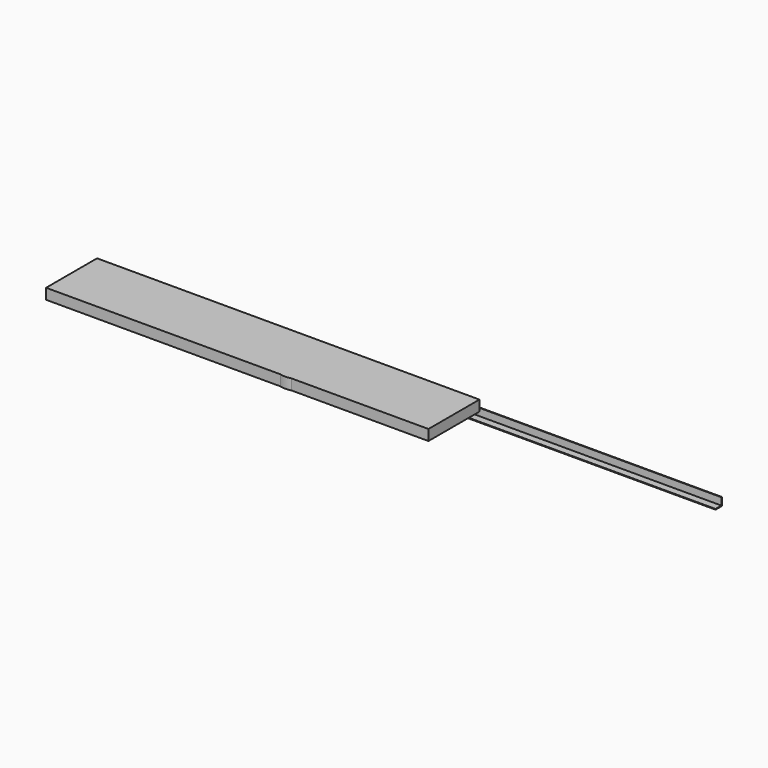
from build123d import *

# Parameters (mm, degrees)
F0_R     = 101.6
F1_DEPTH = 50.8
F2_W     = 1828.8
F2_H     = 304.8
F3_DEPTH = 50.8
F4_W     = 34.925
F4_H     = 3.175
F5_DEPTH = 1828.8


with BuildPart() as f1:
    # F0 (on Top) → F1 (new body)
    with BuildSketch(Plane.XY):
        Circle(F0_R)
    extrude(amount=F1_DEPTH)


with BuildPart() as f3:
    # F2 (on Top) → F3 (new body)
    with BuildSketch(Plane.XY):
        with Locations((-232.752066, 54.402089)):
            Rectangle(F2_W, F2_H)
    extrude(amount=F3_DEPTH)


with BuildPart() as f5:
    # F4 (on Right) → F5 (new body)
    with BuildSketch(Plane.YZ):
        Polygon((222.487578, -30.73646), (222.487578, 7.36354), (219.312578, 7.36354), (219.312578, -27.56146), (219.312578, -30.73646), align=None)
        with Locations((201.850078, -29.14896)):
            Rectangle(F4_W, F4_H)
    extrude(amount=F5_DEPTH)


solid = Compound([f1.part, f3.part, f5.part])
